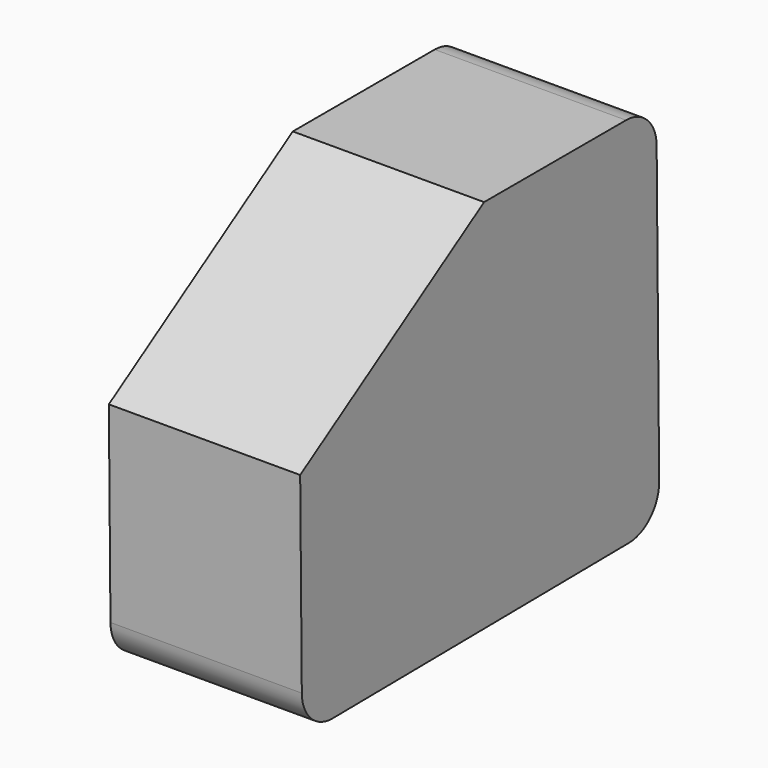
from build123d import *

# Parameters (mm, degrees)
F2_DEPTH = 25.4
F3_R     = 5.08
F4_R     = 5.08


with BuildPart() as f2:
    # F1 (on offset) → F2 (new body)
    with BuildSketch(Plane.YZ.offset(152.4)):
        Polygon((-28.573824, 50.16654), (-59.09586, 30.684389), (-58.771159, 0), (0.524219, 0.627459), (0, 50.16654), align=None)
    extrude(amount=F2_DEPTH)

    # F3
    f3_edges = [f2.edges().sort_by_distance(p)[0] for p in [
        (165.1, -58.771159, 0),
    ]]
    fillet(f3_edges, radius=F3_R)

    # F4
    f4_edges = [f2.edges().sort_by_distance(p)[0] for p in [
        (165.1, 0.524219, 0.627459),
        (165.1, 0, 50.16654),
    ]]
    fillet(f4_edges, radius=F4_R)


solid = f2.part
